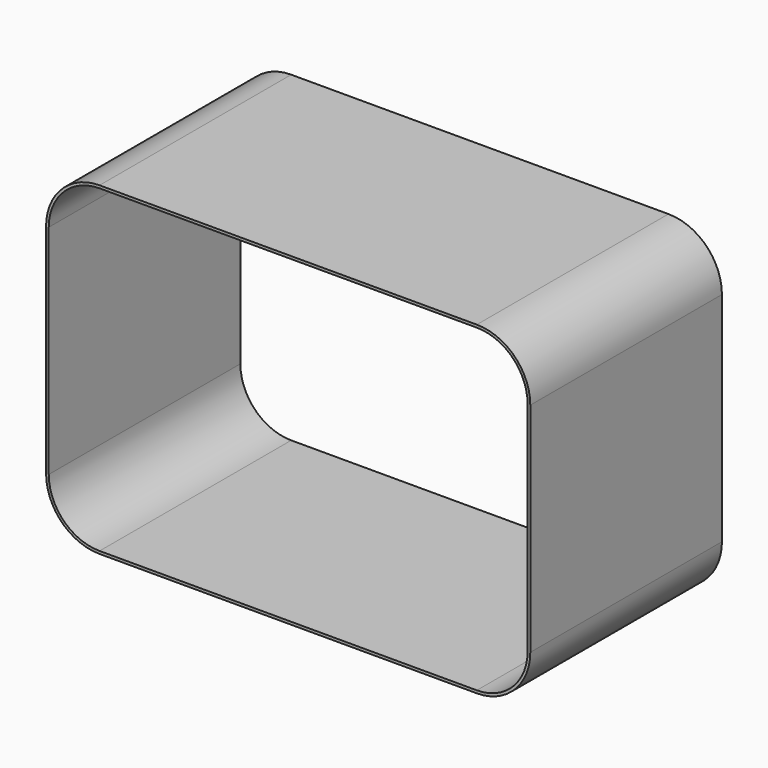
from build123d import *

# Parameters (mm, degrees)
F1_DEPTH = 57.1754
F2_T     = -0.635
F3_ANGLE = 90


with BuildPart() as f1:
    # F0 (on Top) → F1 (new body)
    with BuildSketch(Plane.XY):
        with BuildLine():
            ThreePointArc((57.785, 25.9715), (54.046657, 34.996657), (45.0215, 38.735))
            Line((45.0215, 38.735), (-45.0215, 38.735))
            ThreePointArc((-45.0215, 38.735), (-54.046657, 34.996657), (-57.785, 25.9715))
            Line((-57.785, 25.9715), (-57.785, -25.9715))
            ThreePointArc((-57.785, -25.9715), (-54.046657, -34.996657), (-45.0215, -38.735))
            Line((-45.0215, -38.735), (45.0215, -38.735))
            ThreePointArc((45.0215, -38.735), (54.046657, -34.996657), (57.785, -25.9715))
            Line((57.785, -25.9715), (57.785, 25.9715))
        make_face()
    extrude(amount=F1_DEPTH)

    # F2
    f2_openings = [f1.faces().sort_by_distance(p)[0] for p in [
        (0, 0, 57.1754),
        (0, 0, 0),
    ]]
    offset(amount=F2_T, openings=f2_openings)


with BuildPart() as f1_1:
    # F3: moved
    add(f1.part.rotate(Axis((0, -38.735, 0), (-1, 0, 0)), F3_ANGLE))


solid = f1_1.part
